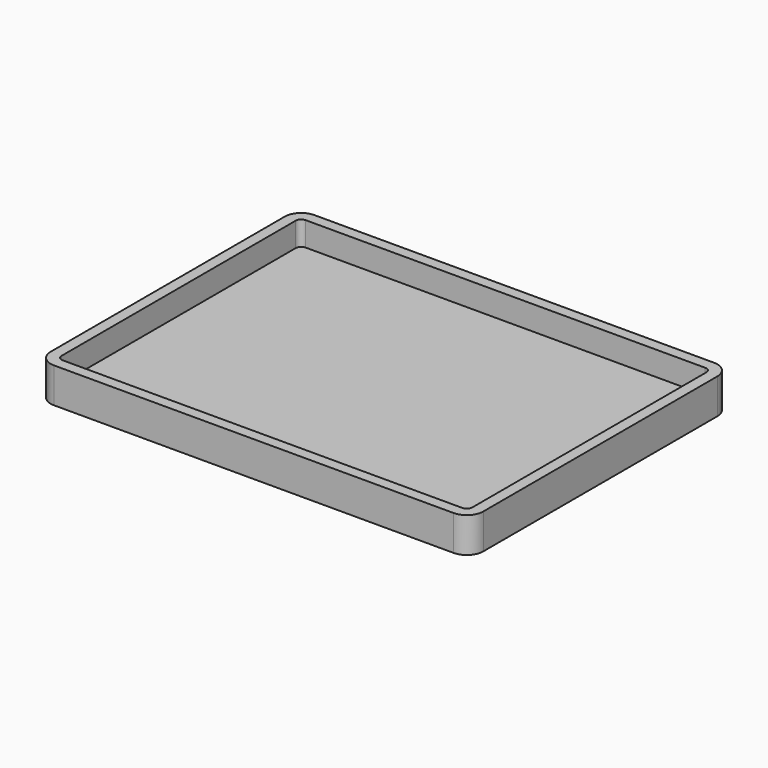
from build123d import *

# Parameters (mm, degrees)
F0_W     = 78.8
F0_H     = 59.3
F1_DEPTH = 6.4
F2_R     = 3
F3_T     = -2


with BuildPart() as f1:
    # F0 (on Top) → F1 (new body)
    with BuildSketch(Plane.XY):
        with Locations((20.085409, -16.739785)):
            Rectangle(F0_W, F0_H)
    extrude(amount=F1_DEPTH)

    # F2
    f2_edges = [f1.edges().sort_by_distance(p)[0] for p in [
        (-19.314591, -46.389785, 3.2),
        (59.485409, -46.389785, 3.2),
        (59.485409, 12.910215, 3.2),
        (-19.314591, 12.910215, 3.2),
    ]]
    fillet(f2_edges, radius=F2_R)

    # F3
    f3_openings = [f1.faces().sort_by_distance(p)[0] for p in [
        (20.085409, -16.739785, 6.4),
    ]]
    offset(amount=F3_T, openings=f3_openings)


solid = f1.part
